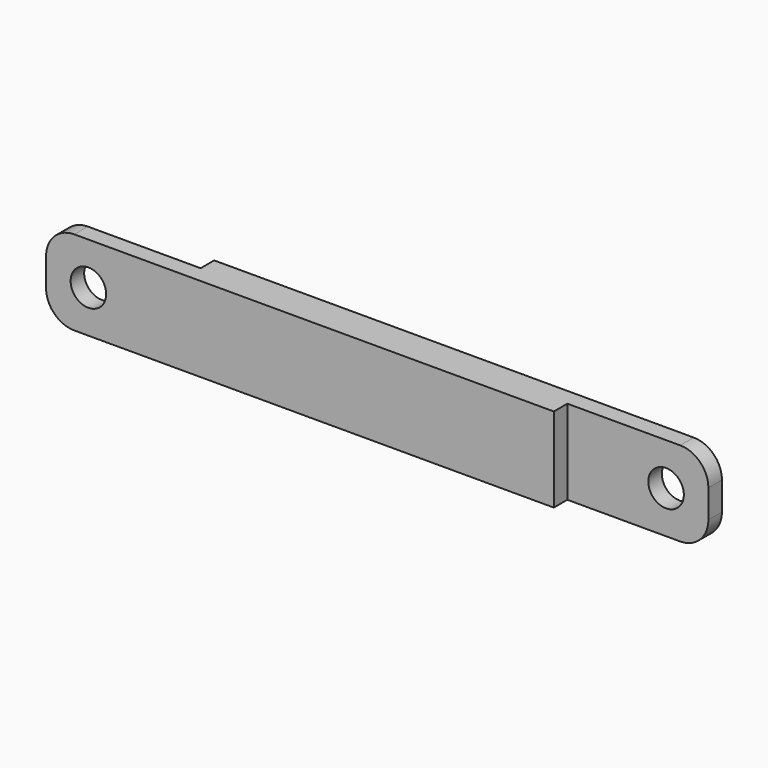
from build123d import *

# Parameters (mm, degrees)
F0_W     = 115
F0_H     = 15
F0_R     = 3.15
F1_DEPTH = 3
F2_W     = 25
F2_H     = 15
F4_DEPTH = 3
F3_W     = 25
F3_H     = 15
F5_DEPTH = 3
F6_R     = 5


with BuildPart() as f1:
    # F0 (on Front) → F1 (new body, symmetric)
    with BuildSketch(Plane.XZ):
        with Locations((-1.0412013265, -7.5)):
            Rectangle(F0_W, F0_H)
        with Locations((-51.0412013265, -7.5)):
            Circle(F0_R, mode=Mode.SUBTRACT)
        with Locations((48.9587986735, -7.5)):
            Circle(F0_R, mode=Mode.SUBTRACT)
    extrude(amount=F1_DEPTH, both=True)

    # F2 (on Front) → F4 (cut)
    with BuildSketch(Plane.XZ):
        with Locations((-46.0412013265, -7.5)):
            Rectangle(F2_W, F2_H)
    extrude(amount=-F4_DEPTH, mode=Mode.SUBTRACT)

    # F3 (on Front) → F5 (cut)
    with BuildSketch(Plane.XZ):
        with Locations((43.9587986735, -7.5)):
            Rectangle(F3_W, F3_H)
    extrude(amount=F5_DEPTH, mode=Mode.SUBTRACT)

    # F6
    f6_edges = [f1.edges().sort_by_distance(p)[0] for p in [
        (-58.541201, -1.5, 0),
        (-58.541201, -1.5, -15),
        (56.458799, 1.5, -15),
        (56.458799, 1.5, 0),
    ]]
    fillet(f6_edges, radius=F6_R)


solid = f1.part
